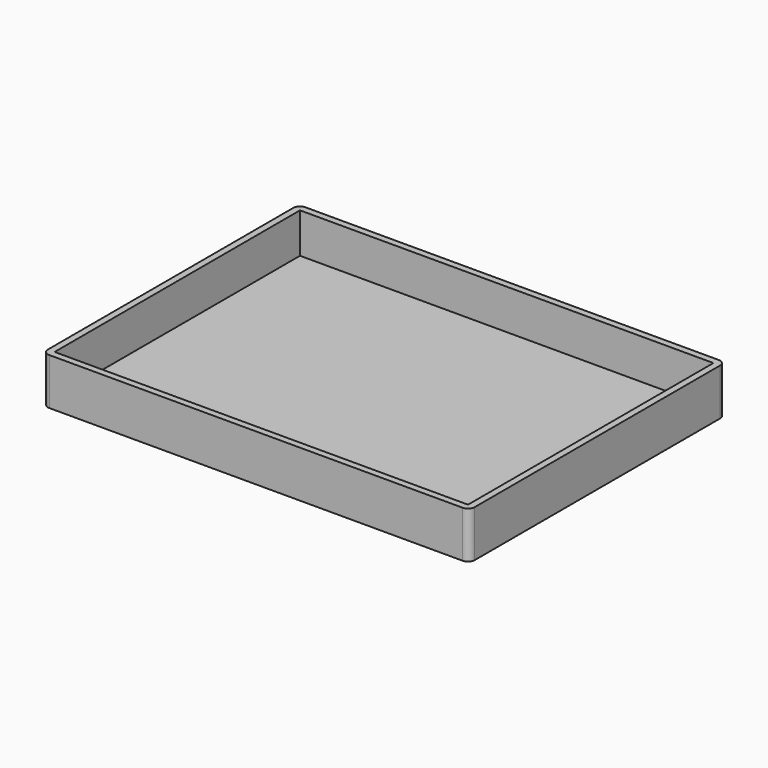
from build123d import *

# Parameters (mm, degrees)
F0_W     = 640
F0_H     = 480
F0_W_2   = 620
F0_H_2   = 460
F1_DEPTH = 70
F2_DEPTH = 60
F3_R     = 10


with BuildPart() as f1:
    # F0 (on Top) → F1 (new body)
    with BuildSketch(Plane.XY):
        Rectangle(F0_W, F0_H)
        Rectangle(F0_W_2, F0_H_2, mode=Mode.SUBTRACT)
        Rectangle(F0_W_2, F0_H_2)
    extrude(amount=-F1_DEPTH)

    # F0 (on Top) → F2 (cut)
    with BuildSketch(Plane.XY):
        Rectangle(F0_W_2, F0_H_2)
    extrude(amount=-F2_DEPTH, mode=Mode.SUBTRACT)

    # F3
    f3_edges = [f1.edges().sort_by_distance(p)[0] for p in [
        (320, -240, -35),
        (320, 240, -35),
        (-320, -240, -35),
        (-320, 240, -35),
    ]]
    fillet(f3_edges, radius=F3_R)


solid = f1.part
